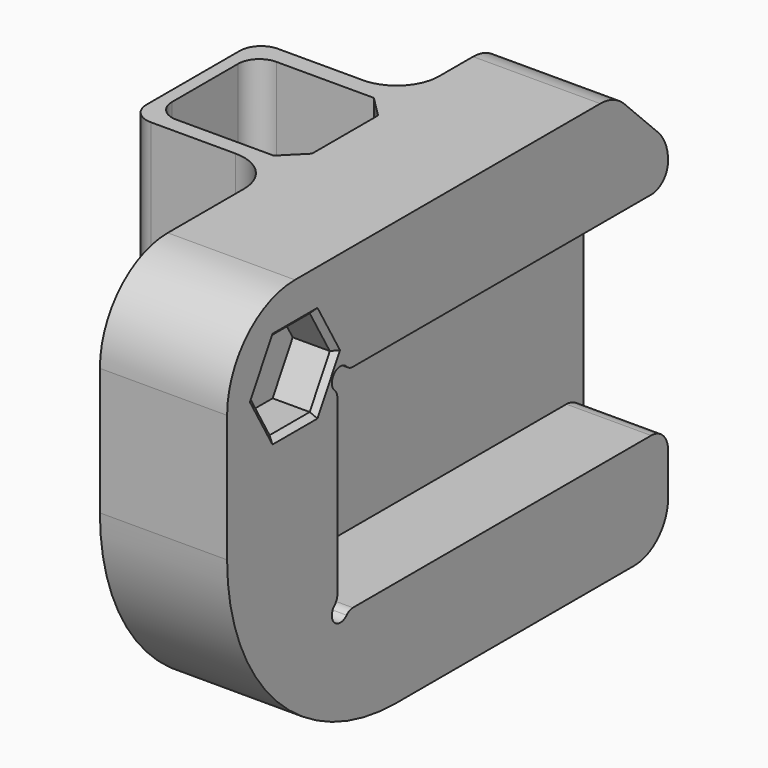
from build123d import *

# Parameters (mm, degrees)
PAD046_DEPTH         = 18
PAD046_DEPTH_BACK    = 8
POCKET084_DEPTH      = 20.001
POCKET084_DEPTH_BACK = 20.001
SKETCH051_R          = 5
SKETCH052_R          = 4
POCKET085_DEPTH      = 4.001
SKETCH053_R          = 2.75
POCKET086_DEPTH      = 21.701
POCKET087_DEPTH      = 149.139231
POCKET088_DEPTH      = 11.501
SKETCH158_W          = 4.5
SKETCH158_H          = 8
POCKET089_DEPTH      = 64.001
POCKET089_DEPTH_BACK = 0.001
POCKET090_DEPTH      = 28.001
SKETCH160_R          = 1.75
POCKET091_DEPTH      = 20.001
POCKET091_DEPTH_BACK = 20.001
POCKET092_DEPTH      = 3
SKETCH165_R          = 2.75
POCKET095_DEPTH      = 17.601
SKETCH166_R          = 5
POCKET096_DEPTH      = 11
FILLET_R             = 2
CHAMFER020_SIZE      = 0.5


with BuildPart() as part:
    # Sketch154 → Pad046 (new body, two sides)
    with BuildSketch(Plane.YZ) as pad046_sk:
        with BuildLine():
            ThreePointArc((20, 20), (14.343146, 17.656854), (12, 12))
            Line((12, 12), (12, 0))
            ThreePointArc((12, 0), (17.857864, -14.142136), (32, -20))
            Line((32, -20), (60, -20))
            ThreePointArc((60, -20), (62.828427, -18.828427), (64, -16))
            Line((64, 12), (64, -16))
            ThreePointArc((64, 12), (63.695518, 13.530734), (62.828427, 14.828427))
            Line((58.828427, 18.828427), (62.828427, 14.828427))
            ThreePointArc((58.828427, 18.828427), (57.530734, 19.695518), (56, 20))
            Line((20, 20), (56, 20))
        make_face()
    extrude(amount=PAD046_DEPTH)
    extrude(pad046_sk.sketch, amount=-PAD046_DEPTH_BACK)

    # Sketch155 → Pocket084 (cut, two sides)
    with BuildSketch(Plane.XY) as pocket084_sk:
        with BuildLine():
            Line((6, 10), (6, 29))
            ThreePointArc((6, 29), (4.828427, 31.828427), (2, 33))
            Line((2, 33), (-10, 33))
            Line((-10, 33), (-10, 10))
            Line((-10, 10), (6, 10))
        make_face()
        with BuildLine():
            Line((-10, 48), (2, 48))
            ThreePointArc((2, 48), (4.828427, 49.171573), (6, 52))
            Line((6, 52), (6, 64))
            Line((-10, 64), (6, 64))
            Line((-10, 48), (-10, 64))
        make_face()
    extrude(amount=-POCKET084_DEPTH, mode=Mode.SUBTRACT)
    extrude(pocket084_sk.sketch, amount=POCKET084_DEPTH_BACK, mode=Mode.SUBTRACT)

    # Sketch051 → AdditiveLoft004 section 0
    with BuildSketch(Plane.YZ.offset(6)):
        with Locations((20, 12)):
            Circle(SKETCH051_R)
    # Sketch052 → AdditiveLoft004 section 1
    with BuildSketch(Plane.YZ.offset(5.4)):
        with Locations((20, 12)):
            Circle(SKETCH052_R)
    loft()

    # Sketch054 → Pocket085 (cut, through all)
    with BuildSketch(Plane.YZ.offset(14)):
        Polygon((24.734272, 12), (22.367136, 16.1), (17.632864, 16.1), (15.265728, 12), (17.632864, 7.9), (22.367136, 7.9), align=None)
    extrude(amount=POCKET085_DEPTH, mode=Mode.SUBTRACT)

    # Sketch053 → Pocket086 (cut, through all)
    with BuildSketch(Plane.YZ.offset(13.7)):
        with Locations((20, 12)):
            Circle(SKETCH053_R)
    extrude(amount=-POCKET086_DEPTH, mode=Mode.SUBTRACT)

    # Sketch156 → Pocket087 (cut, through all)
    with BuildSketch(Plane.YZ.offset(10)):
        with BuildLine():
            ThreePointArc((26.089742, 10.323223), (24.646447, 10.353553), (24.676777, 8.910258))
            ThreePointArc((25, 8.17407), (24.915635, 8.576079), (24.676777, 8.910258))
            Line((25, 8.17407), (25, 0))
            Line((64, 0), (25, 0))
            Line((64, 12), (64, 0))
            ThreePointArc((62, 10), (63.414214, 10.585786), (64, 12))
            Line((62, 10), (26.82593, 10))
            ThreePointArc((26.089742, 10.323223), (26.423921, 10.084365), (26.82593, 10))
        make_face()
    pocket087 = extrude(amount=POCKET087_DEPTH, mode=Mode.SUBTRACT)

    # Mirrored024: Pocket087 across XY
    add(pocket087.mirror(Plane.XY), mode=Mode.SUBTRACT)

    # Sketch157 → Pocket088 (cut, through all)
    with BuildSketch(Plane.YZ.offset(3.5)):
        Polygon((38.15, -20), (38.9, -20), (38.9, -19), (39.9, -19), (39.9, -18), (38.9, -18), (38.9, -17), (39.9, -17), (39.9, -16), (38.9, -16), (38.9, -15), (39.9, -15), (39.9, -14), (38.9, -14), (38.9, -13), (37.9, -13), (37.9, -14), (36.9, -14), (36.9, -13), (35.9, -13), (35.9, -14), (34.9, -14), (34.9, -13), (33.9, -13), (33.9, -14), (32.9, -14), (32.9, -13), (31.9, -13), (31.9, -14), (30.9, -14), (30.9, -13), (29.9, -13), (29.9, -14), (28.9, -14), (28.9, -13), (27.9, -13), (27.9, -14), (26.9, -14), (26.9, -14.75), (38.15, -14.75), align=None)
    extrude(amount=-POCKET088_DEPTH, mode=Mode.SUBTRACT)

    # Sketch158 → Pocket089 (cut, two sides)
    with BuildSketch(Plane.XZ) as pocket089_sk:
        with Locations((-5.75, -16)):
            Rectangle(SKETCH158_W, SKETCH158_H)
    extrude(amount=-POCKET089_DEPTH, mode=Mode.SUBTRACT)
    extrude(pocket089_sk.sketch, amount=POCKET089_DEPTH_BACK, mode=Mode.SUBTRACT)

    # Sketch159 → Pocket090 (cut, through all)
    with BuildSketch(Plane.XY.offset(-8)):
        with BuildLine():
            Line((-4.8, 46.3), (4.4, 46.3))
            Line((4.4, 46.3), (6.4, 44.3))
            Line((6.4, 44.3), (6.4, 36.5))
            Line((6.4, 36.5), (4.4, 34.5))
            Line((4.4, 34.5), (-4.8, 34.5))
            ThreePointArc((-6.8, 36.5), (-6.214214, 35.085786), (-4.8, 34.5))
            Line((-6.8, 36.5), (-6.8, 44.3))
            ThreePointArc((-4.8, 46.3), (-6.214214, 45.714214), (-6.8, 44.3))
        make_face()
    extrude(amount=POCKET090_DEPTH, mode=Mode.SUBTRACT)

    # Sketch160 → Pocket091 (cut, two sides)
    with BuildSketch(Plane.XY) as pocket091_sk:
        with Locations((0, 42.9)):
            Circle(SKETCH160_R)
    extrude(amount=-POCKET091_DEPTH, mode=Mode.SUBTRACT)
    extrude(pocket091_sk.sketch, amount=POCKET091_DEPTH_BACK, mode=Mode.SUBTRACT)

    # Sketch161 → Pocket092 (cut)
    with BuildSketch(Plane.XY.offset(-10)):
        Polygon((1.616581, 40.1), (3.233162, 42.9), (1.616581, 45.7), (-1.616581, 45.7), (-8, 45.7), (-8, 40.1), (-1.616581, 40.1), align=None)
    extrude(amount=-POCKET092_DEPTH, mode=Mode.SUBTRACT)

    # Sketch165 → Pocket095 (cut, through all)
    with BuildSketch(Plane.YZ.offset(9.6)):
        with Locations((58, 0)):
            Circle(SKETCH165_R)
        with Locations((30, 0)):
            Circle(SKETCH165_R)
    extrude(amount=-POCKET095_DEPTH, mode=Mode.SUBTRACT)

    # Sketch166 → Pocket096 (cut)
    with BuildSketch(Plane.YZ.offset(6)):
        with Locations((30, 0)):
            Circle(SKETCH166_R)
    extrude(amount=-POCKET096_DEPTH, mode=Mode.SUBTRACT)

    # Fillet
    fillet_edges = [part.edges().sort_by_distance(p)[0] for p in [
        (-8, 33, 4),
        (-8, 48, 4),
    ]]
    fillet(fillet_edges, radius=FILLET_R)

    # Chamfer020
    chamfer020_edges = [part.edges().sort_by_distance(p)[0] for p in [
        (18, 23.550704, 9.95),
        (18, 23.550704, 14.05),
        (18, 20, 16.1),
        (18, 16.449296, 14.05),
        (18, 16.449296, 9.95),
        (18, 20, 7.9),
    ]]
    chamfer(chamfer020_edges, length=CHAMFER020_SIZE)


solid = part.part
